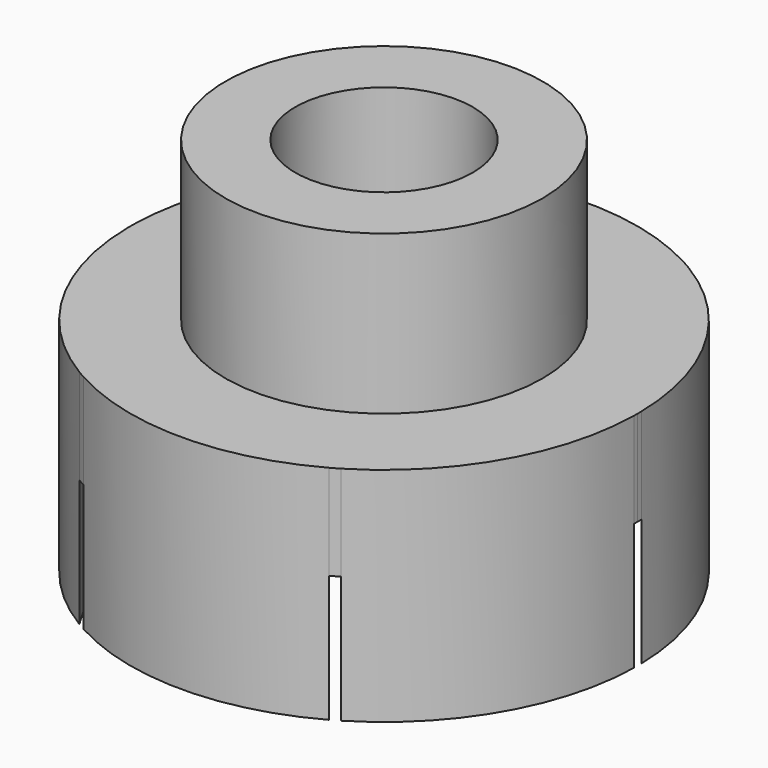
from build123d import *

# Parameters (mm, degrees)
F0_R     = 2.5
F0_R_2   = 1.4
F1_DEPTH = 6
F2_DEPTH = 3.5
F3_DEPTH = 2


with BuildPart() as f1:
    # F0 (on Top) → F1 (new body)
    with BuildSketch(Plane.XY):
        Circle(F0_R)
        Circle(F0_R_2, mode=Mode.SUBTRACT)
    extrude(amount=F1_DEPTH)

    # F0 (on Top) → F2 (join)
    with BuildSketch(Plane.XY):
        with BuildLine():
            ThreePointArc((3.9993347498, -0.0729490169), (3.999833684, -0.0364760251), (4, 0))
            ThreePointArc((4, 0), (3.999833684, 0.0364760251), (3.9993347498, 0.0729490169))
            Line((3.9993347498, 0.0729490169), (2.0628430767, 3.4270509831))
            ThreePointArc((2.0628430767, 3.4270509831), (2, 3.4641016151), (1.9364916731, 3.5))
            Line((1.9364916731, 3.5), (-1.9364916731, 3.5))
            ThreePointArc((-1.9364916731, 3.5), (-2, 3.4641016151), (-2.0628430767, 3.4270509831))
            Line((-2.0628430767, 3.4270509831), (-3.9993347498, 0.0729490169))
            ThreePointArc((-3.9993347498, 0.0729490169), (-4, 0), (-3.9993347498, -0.0729490169))
            Line((-3.9993347498, -0.0729490169), (-2.0628430767, -3.4270509831))
            ThreePointArc((-2.0628430767, -3.4270509831), (-2, -3.4641016151), (-1.9364916731, -3.5))
            Line((-1.9364916731, -3.5), (1.9364916731, -3.5))
            ThreePointArc((1.9364916731, -3.5), (2, -3.4641016151), (2.0628430767, -3.4270509831))
            Line((2.0628430767, -3.4270509831), (3.9993347498, -0.0729490169))
        make_face()
        Circle(F0_R, mode=Mode.SUBTRACT)
        with BuildLine():
            Line((-1.9364916731, 3.5), (1.9364916731, 3.5))
            ThreePointArc((1.9364916731, 3.5), (0, 4), (-1.9364916731, 3.5))
        make_face()
        with BuildLine():
            Line((-3.9993347498, 0.0729490169), (-2.0628430767, 3.4270509831))
            ThreePointArc((-2.0628430767, 3.4270509831), (-3.4641016151, 2), (-3.9993347498, 0.0729490169))
        make_face()
        with BuildLine():
            ThreePointArc((-3.9993347498, -0.0729490169), (-3.4641016151, -2), (-2.0628430767, -3.4270509831))
            Line((-2.0628430767, -3.4270509831), (-3.9993347498, -0.0729490169))
        make_face()
        with BuildLine():
            ThreePointArc((-1.9364916731, -3.5), (0, -4), (1.9364916731, -3.5))
            Line((1.9364916731, -3.5), (-1.9364916731, -3.5))
        make_face()
        with BuildLine():
            ThreePointArc((2.0628430767, -3.4270509831), (3.4641016151, -2), (3.9993347498, -0.0729490169))
            Line((3.9993347498, -0.0729490169), (2.0628430767, -3.4270509831))
        make_face()
        with BuildLine():
            Line((2.0628430767, 3.4270509831), (3.9993347498, 0.0729490169))
            ThreePointArc((3.9993347498, 0.0729490169), (3.4641016151, 2), (2.0628430767, 3.4270509831))
        make_face()
    extrude(amount=F2_DEPTH)

    # F0 (on Top) → F3 (cut)
    with BuildSketch(Plane.XY):
        with BuildLine():
            ThreePointArc((3.9993347498, -0.0729490169), (3.999833684, -0.0364760251), (4, 0))
            ThreePointArc((4, 0), (3.999833684, 0.0364760251), (3.9993347498, 0.0729490169))
            Line((3.9993347498, 0.0729490169), (2.0628430767, 3.4270509831))
            ThreePointArc((2.0628430767, 3.4270509831), (2, 3.4641016151), (1.9364916731, 3.5))
            Line((1.9364916731, 3.5), (-1.9364916731, 3.5))
            ThreePointArc((-1.9364916731, 3.5), (-2, 3.4641016151), (-2.0628430767, 3.4270509831))
            Line((-2.0628430767, 3.4270509831), (-3.9993347498, 0.0729490169))
            ThreePointArc((-3.9993347498, 0.0729490169), (-4, 0), (-3.9993347498, -0.0729490169))
            Line((-3.9993347498, -0.0729490169), (-2.0628430767, -3.4270509831))
            ThreePointArc((-2.0628430767, -3.4270509831), (-2, -3.4641016151), (-1.9364916731, -3.5))
            Line((-1.9364916731, -3.5), (1.9364916731, -3.5))
            ThreePointArc((1.9364916731, -3.5), (2, -3.4641016151), (2.0628430767, -3.4270509831))
            Line((2.0628430767, -3.4270509831), (3.9993347498, -0.0729490169))
        make_face()
        Circle(F0_R, mode=Mode.SUBTRACT)
        Circle(F0_R)
        Circle(F0_R_2, mode=Mode.SUBTRACT)
    extrude(amount=F3_DEPTH, mode=Mode.SUBTRACT)


solid = f1.part
